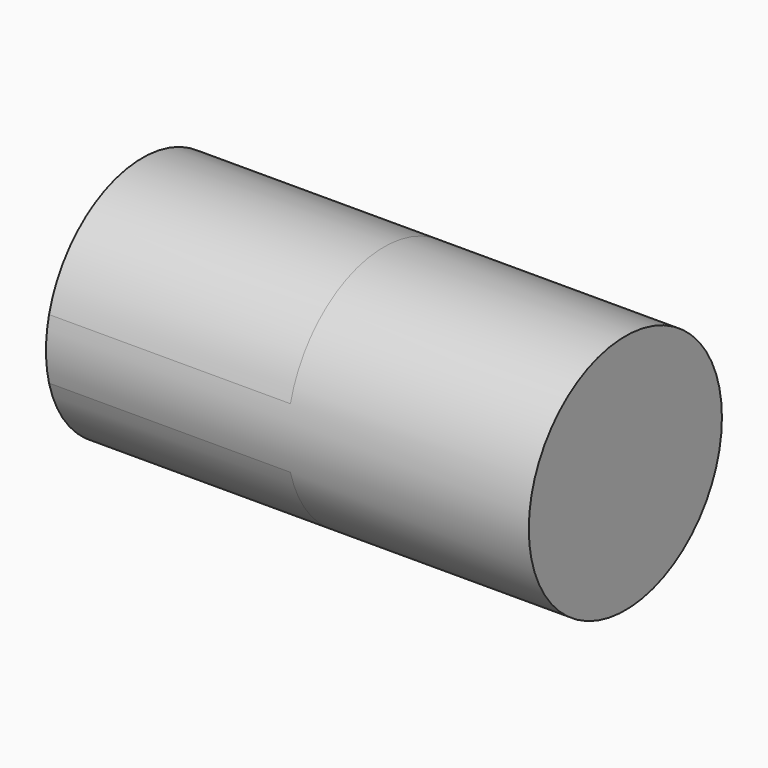
from build123d import *

# Parameters (mm, degrees)
F0_R     = 12.7
F1_DEPTH = 50.8
F3_DEPTH = 25.4


with BuildPart() as f1:
    # F0 (on Right) → F1 (new body)
    with BuildSketch(Plane.YZ):
        Circle(F0_R)
    extrude(amount=F1_DEPTH)

    # F2 (on face) → F3 (cut)
    with BuildSketch(Plane(origin=(0, 0, 0), x_dir=(0, -1, 0), z_dir=(-1, 0, 0))):
        with BuildLine():
            Line((-25.4, 28.575), (-25.4, 3.175))
            Line((-25.4, 3.175), (-12.296722, 3.175))
            ThreePointArc((-12.296722, 3.175), (0, 12.7), (12.296722, 3.175))
            Line((12.296722, 3.175), (25.4, 3.175))
            Line((25.4, 3.175), (25.4, 28.575))
            Line((25.4, 28.575), (-25.4, 28.575))
        make_face()
        with BuildLine():
            Line((-12.296722, -3.175), (-25.4, -3.175))
            Line((-25.4, -3.175), (-25.4, -53.975))
            Line((-25.4, -53.975), (25.4, -53.975))
            Line((25.4, -53.975), (25.4, -3.175))
            Line((25.4, -3.175), (12.296722, -3.175))
            ThreePointArc((12.296722, -3.175), (0, -12.7), (-12.296722, -3.175))
        make_face()
    extrude(amount=-F3_DEPTH, mode=Mode.SUBTRACT)


solid = f1.part
